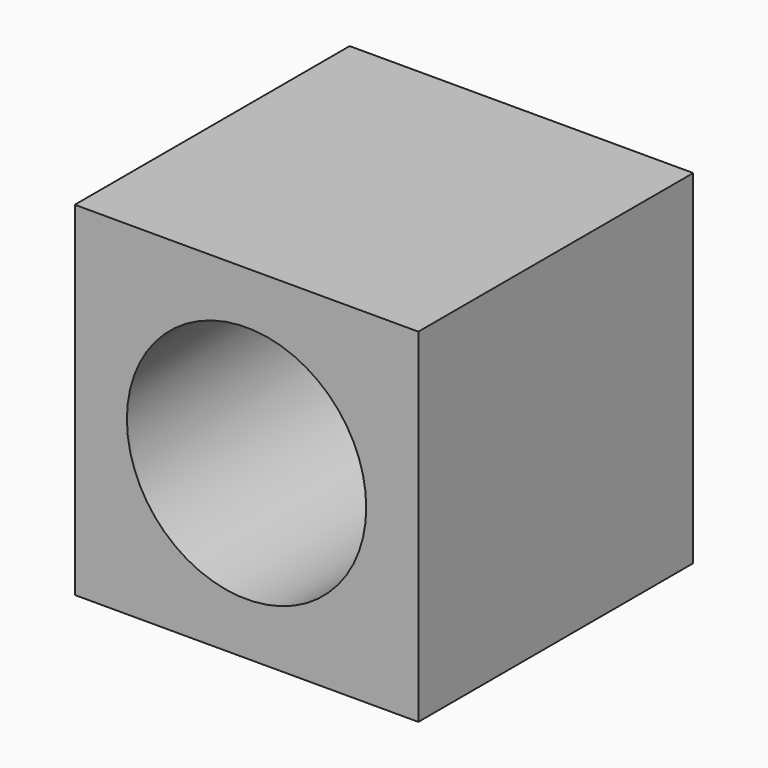
from build123d import *

# Parameters (mm, degrees)
F1_W     = 101.6
F1_H     = 101.6
F2_DEPTH = 101.6
F3_R     = 35.387907
F0_DEPTH = 127


with BuildPart() as f2:
    # F1 (on Top) → F2 (new body)
    with BuildSketch(Plane.XY):
        Rectangle(F1_W, F1_H)
    extrude(amount=F2_DEPTH)

    # F3 (on face) → F0 (cut)
    with BuildSketch(Plane.XZ.offset(50.8)):
        with Locations((0, 50.8)):
            Circle(F3_R)
    extrude(amount=-F0_DEPTH, mode=Mode.SUBTRACT)


solid = f2.part
